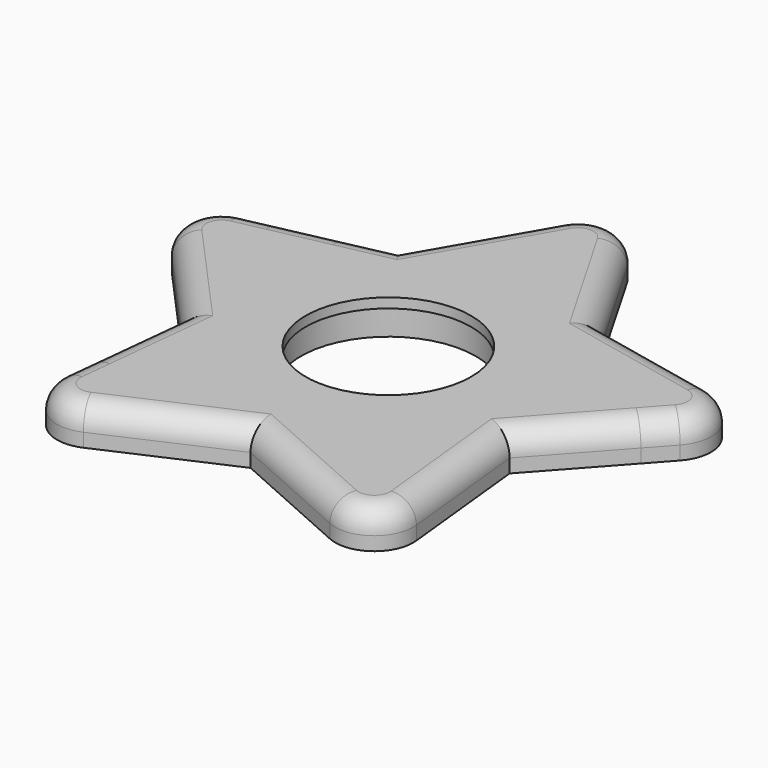
from build123d import *

# Parameters (mm, degrees)
F0_R     = 11.2
F0_R_2   = 10.6
F1_DEPTH = 1.25
F2_DEPTH = 3.5
F3_R     = 3
F4_DEPTH = 0.5


with BuildPart() as f1:
    # F0 (on Top) → F1 (new body)
    with BuildSketch(Plane.XY):
        with BuildLine():
            ThreePointArc((32.5660235492, 6.0283774926), (33.6055820033, 10.9191154962), (29.8898578759, 14.264768528))
            Line((29.8898578759, 14.264768528), (12.9759925753, 17.8599215809))
            Line((12.9759925753, 17.8599215809), (4.3301270189, 32.835))
            ThreePointArc((4.3301270189, 32.835), (0, 35.335), (-4.3301270189, 32.835))
            Line((-4.3301270189, 32.835), (-12.9759925753, 17.8599215809))
            Line((-12.9759925753, 17.8599215809), (-18.7194236958, 16.6391176097))
            Line((-18.7194236958, 16.6391176097), (-25.9988421276, 15.0918294569))
            Line((-25.9988421276, 15.0918294569), (-29.8898578759, 14.264768528))
            ThreePointArc((-29.8898578759, 14.264768528), (-33.6055820033, 10.9191154962), (-32.5660235492, 6.0283774926))
            Line((-32.5660235492, 6.0283774926), (-20.9955970247, -6.8218830075))
            Line((-20.9955970247, -6.8218830075), (-22.3872667993, -20.0627364432))
            Line((-22.3872667993, -20.0627364432), (-22.8030751051, -24.018888208))
            ThreePointArc((-22.8030751051, -24.018888208), (-20.7693918898, -28.5866154962), (-15.7967824129, -29.1092578126))
            Line((-15.7967824129, -29.1092578126), (0, -22.0760771468))
            Line((0, -22.0760771468), (15.7967824129, -29.1092578126))
            ThreePointArc((15.7967824129, -29.1092578126), (20.7693918898, -28.5866154962), (22.8030751051, -24.018888208))
            Line((22.8030751051, -24.018888208), (20.9955970247, -6.8218830075))
            Line((20.9955970247, -6.8218830075), (29.9042599002, 3.0721894725))
            Line((29.9042599002, 3.0721894725), (32.5660235492, 6.0283774926))
        make_face()
        with BuildLine():
            Line((3.7210224849, 27.89), (7.4420449699, 21.445))
            Line((7.4420449699, 21.445), (10.6005307066, 15.9743422289))
            ThreePointArc((10.6005307066, 15.9743422289), (11.1570110096, 15.3563082401), (11.9167581326, 15.0180470274))
            Line((11.9167581326, 15.0180470274), (18.0956886234, 13.7046748075))
            Line((18.0956886234, 13.7046748075), (25.3751070552, 12.1573866547))
            Line((25.3751070552, 12.1573866547), (29.2661228034, 11.3303257258))
            ThreePointArc((29.2661228034, 11.3303257258), (30.7524124544, 9.9920645131), (30.3365890728, 8.0357693116))
            Line((30.3365890728, 8.0357693116), (27.6748254238, 5.0795812915))
            Line((27.6748254238, 5.0795812915), (22.6951253605, -0.4509359188))
            Line((22.6951253605, -0.4509359188), (18.4682464081, -5.145360582))
            ThreePointArc((18.4682464081, -5.145360582), (18.0524230264, -5.865587806), (17.9654922683, -6.6926787213))
            Line((17.9654922683, -6.6926787213), (18.6257955889, -12.9750451642))
            Line((18.6257955889, -12.9750451642), (19.4037011132, -20.376321833))
            Line((19.4037011132, -20.376321833), (19.819509419, -24.3324735978))
            ThreePointArc((19.819509419, -24.3324735978), (19.0060361329, -26.1595645131), (17.0169923421, -26.3686214396))
            Line((17.0169923421, -26.3686214396), (13.3829602597, -24.7506461132))
            Line((13.3829602597, -24.7506461132), (6.5843138819, -21.7236937245))
            Line((6.5843138819, -21.7236937245), (0.8134732862, -19.154349953))
            ThreePointArc((0.8134732862, -19.154349953), (0, -18.9814408683), (-0.8134732862, -19.154349953))
            Line((-0.8134732862, -19.154349953), (-6.5843138819, -21.7236937245))
            Line((-6.5843138819, -21.7236937245), (-13.3829602597, -24.7506461132))
            Line((-13.3829602597, -24.7506461132), (-17.0169923421, -26.3686214396))
            ThreePointArc((-17.0169923421, -26.3686214396), (-19.0060361329, -26.1595645131), (-19.819509419, -24.3324735978))
            Line((-19.819509419, -24.3324735978), (-19.4037011132, -20.376321833))
            Line((-19.4037011132, -20.376321833), (-18.6257955889, -12.9750451642))
            Line((-18.6257955889, -12.9750451642), (-17.9654922683, -6.6926787213))
            ThreePointArc((-17.9654922683, -6.6926787213), (-18.0524230264, -5.865587806), (-18.4682464081, -5.145360582))
            Line((-18.4682464081, -5.145360582), (-22.6951253605, -0.4509359188))
            Line((-22.6951253605, -0.4509359188), (-27.6748254238, 5.0795812915))
            Line((-27.6748254238, 5.0795812915), (-30.3365890728, 8.0357693116))
            ThreePointArc((-30.3365890728, 8.0357693116), (-30.7524124544, 9.9920645131), (-29.2661228034, 11.3303257258))
            Line((-29.2661228034, 11.3303257258), (-25.3751070552, 12.1573866547))
            Line((-25.3751070552, 12.1573866547), (-18.0956886234, 13.7046748075))
            Line((-18.0956886234, 13.7046748075), (-11.9167581326, 15.0180470274))
            ThreePointArc((-11.9167581326, 15.0180470274), (-11.1570110096, 15.3563082401), (-10.6005307066, 15.9743422289))
            Line((-10.6005307066, 15.9743422289), (-7.4420449699, 21.445))
            Line((-7.4420449699, 21.445), (-3.7210224849, 27.89))
            Line((-3.7210224849, 27.89), (-1.7320508076, 31.335))
            ThreePointArc((-1.7320508076, 31.335), (0, 32.335), (1.7320508076, 31.335))
            Line((1.7320508076, 31.335), (3.7210224849, 27.89))
        make_face(mode=Mode.SUBTRACT)
        with BuildLine():
            Line((7.4420449699, 21.445), (3.7210224849, 15))
            Line((3.7210224849, 15), (-3.7210224849, 15))
            Line((-3.7210224849, 15), (-7.4420449699, 21.445))
            Line((-7.4420449699, 21.445), (-10.6005307066, 15.9743422289))
            ThreePointArc((-10.6005307066, 15.9743422289), (-11.1570110096, 15.3563082401), (-11.9167581326, 15.0180470274))
            Line((-11.9167581326, 15.0180470274), (-18.0956886234, 13.7046748075))
            Line((-18.0956886234, 13.7046748075), (-13.1159885601, 8.1741575972))
            Line((-13.1159885601, 8.1741575972), (-15.4157069287, 1.0963522341))
            Line((-15.4157069287, 1.0963522341), (-22.6951253605, -0.4509359188))
            Line((-22.6951253605, -0.4509359188), (-18.4682464081, -5.145360582))
            ThreePointArc((-18.4682464081, -5.145360582), (-18.0524230264, -5.865587806), (-17.9654922683, -6.6926787213))
            Line((-17.9654922683, -6.6926787213), (-18.6257955889, -12.9750451642))
            Line((-18.6257955889, -12.9750451642), (-11.8271492111, -9.9480927755))
            Line((-11.8271492111, -9.9480927755), (-5.8064083576, -14.3224170557))
            Line((-5.8064083576, -14.3224170557), (-6.5843138819, -21.7236937245))
            Line((-6.5843138819, -21.7236937245), (-0.8134732862, -19.154349953))
            ThreePointArc((-0.8134732862, -19.154349953), (0, -18.9814408683), (0.8134732862, -19.154349953))
            Line((0.8134732862, -19.154349953), (6.5843138819, -21.7236937245))
            Line((6.5843138819, -21.7236937245), (5.8064083576, -14.3224170557))
            Line((5.8064083576, -14.3224170557), (11.8271492111, -9.9480927755))
            Line((11.8271492111, -9.9480927755), (18.6257955889, -12.9750451642))
            Line((18.6257955889, -12.9750451642), (17.9654922683, -6.6926787213))
            ThreePointArc((17.9654922683, -6.6926787213), (18.0524230264, -5.865587806), (18.4682464081, -5.145360582))
            Line((18.4682464081, -5.145360582), (22.6951253605, -0.4509359188))
            Line((22.6951253605, -0.4509359188), (15.4157069287, 1.0963522341))
            Line((15.4157069287, 1.0963522341), (13.1159885601, 8.1741575972))
            Line((13.1159885601, 8.1741575972), (18.0956886234, 13.7046748075))
            Line((18.0956886234, 13.7046748075), (11.9167581326, 15.0180470274))
            ThreePointArc((11.9167581326, 15.0180470274), (11.1570110096, 15.3563082401), (10.6005307066, 15.9743422289))
            Line((10.6005307066, 15.9743422289), (7.4420449699, 21.445))
        make_face()
        Circle(F0_R, mode=Mode.SUBTRACT)
        Circle(F0_R)
        Circle(F0_R_2, mode=Mode.SUBTRACT)
        Polygon((-13.1159885601, 8.1741575972), (-18.0956886234, 13.7046748075), (-25.3751070552, 12.1573866547), (-27.6748254238, 5.0795812915), (-22.6951253605, -0.4509359188), (-15.4157069287, 1.0963522341), align=None)
        Polygon((-11.8271492111, -9.9480927755), (-18.6257955889, -12.9750451642), (-19.4037011132, -20.376321833), (-13.3829602597, -24.7506461132), (-6.5843138819, -21.7236937245), (-5.8064083576, -14.3224170557), align=None)
        Polygon((19.4037011132, -20.376321833), (18.6257955889, -12.9750451642), (11.8271492111, -9.9480927755), (5.8064083576, -14.3224170557), (6.5843138819, -21.7236937245), (13.3829602597, -24.7506461132), align=None)
        Polygon((25.3751070552, 12.1573866547), (18.0956886234, 13.7046748075), (13.1159885601, 8.1741575972), (15.4157069287, 1.0963522341), (22.6951253605, -0.4509359188), (27.6748254238, 5.0795812915), align=None)
        Polygon((-3.7210224849, 15), (3.7210224849, 15), (7.4420449699, 21.445), (3.7210224849, 27.89), (-3.7210224849, 27.89), (-7.4420449699, 21.445), align=None)
        with BuildLine():
            Line((-27.6748254238, 5.0795812915), (-25.3751070552, 12.1573866547))
            Line((-25.3751070552, 12.1573866547), (-29.2661228034, 11.3303257258))
            ThreePointArc((-29.2661228034, 11.3303257258), (-30.7524124544, 9.9920645131), (-30.3365890728, 8.0357693116))
            Line((-30.3365890728, 8.0357693116), (-27.6748254238, 5.0795812915))
        make_face()
        with BuildLine():
            Line((-13.3829602597, -24.7506461132), (-19.4037011132, -20.376321833))
            Line((-19.4037011132, -20.376321833), (-19.819509419, -24.3324735978))
            ThreePointArc((-19.819509419, -24.3324735978), (-19.0060361329, -26.1595645131), (-17.0169923421, -26.3686214396))
            Line((-17.0169923421, -26.3686214396), (-13.3829602597, -24.7506461132))
        make_face()
        with BuildLine():
            Line((19.819509419, -24.3324735978), (19.4037011132, -20.376321833))
            Line((19.4037011132, -20.376321833), (13.3829602597, -24.7506461132))
            Line((13.3829602597, -24.7506461132), (17.0169923421, -26.3686214396))
            ThreePointArc((17.0169923421, -26.3686214396), (19.0060361329, -26.1595645131), (19.819509419, -24.3324735978))
        make_face()
        with BuildLine():
            Line((29.2661228034, 11.3303257258), (25.3751070552, 12.1573866547))
            Line((25.3751070552, 12.1573866547), (27.6748254238, 5.0795812915))
            Line((27.6748254238, 5.0795812915), (30.3365890728, 8.0357693116))
            ThreePointArc((30.3365890728, 8.0357693116), (30.7524124544, 9.9920645131), (29.2661228034, 11.3303257258))
        make_face()
        with BuildLine():
            Line((-3.7210224849, 27.89), (3.7210224849, 27.89))
            Line((3.7210224849, 27.89), (1.7320508076, 31.335))
            ThreePointArc((1.7320508076, 31.335), (0, 32.335), (-1.7320508076, 31.335))
            Line((-1.7320508076, 31.335), (-3.7210224849, 27.89))
        make_face()
    extrude(amount=F1_DEPTH)

    # F0 (on Top) → F2 (join)
    with BuildSketch(Plane.XY):
        with BuildLine():
            ThreePointArc((32.5660235492, 6.0283774926), (33.6055820033, 10.9191154962), (29.8898578759, 14.264768528))
            Line((29.8898578759, 14.264768528), (12.9759925753, 17.8599215809))
            Line((12.9759925753, 17.8599215809), (4.3301270189, 32.835))
            ThreePointArc((4.3301270189, 32.835), (0, 35.335), (-4.3301270189, 32.835))
            Line((-4.3301270189, 32.835), (-12.9759925753, 17.8599215809))
            Line((-12.9759925753, 17.8599215809), (-18.7194236958, 16.6391176097))
            Line((-18.7194236958, 16.6391176097), (-25.9988421276, 15.0918294569))
            Line((-25.9988421276, 15.0918294569), (-29.8898578759, 14.264768528))
            ThreePointArc((-29.8898578759, 14.264768528), (-33.6055820033, 10.9191154962), (-32.5660235492, 6.0283774926))
            Line((-32.5660235492, 6.0283774926), (-20.9955970247, -6.8218830075))
            Line((-20.9955970247, -6.8218830075), (-22.3872667993, -20.0627364432))
            Line((-22.3872667993, -20.0627364432), (-22.8030751051, -24.018888208))
            ThreePointArc((-22.8030751051, -24.018888208), (-20.7693918898, -28.5866154962), (-15.7967824129, -29.1092578126))
            Line((-15.7967824129, -29.1092578126), (0, -22.0760771468))
            Line((0, -22.0760771468), (15.7967824129, -29.1092578126))
            ThreePointArc((15.7967824129, -29.1092578126), (20.7693918898, -28.5866154962), (22.8030751051, -24.018888208))
            Line((22.8030751051, -24.018888208), (20.9955970247, -6.8218830075))
            Line((20.9955970247, -6.8218830075), (29.9042599002, 3.0721894725))
            Line((29.9042599002, 3.0721894725), (32.5660235492, 6.0283774926))
        make_face()
        with BuildLine():
            Line((3.7210224849, 27.89), (7.4420449699, 21.445))
            Line((7.4420449699, 21.445), (10.6005307066, 15.9743422289))
            ThreePointArc((10.6005307066, 15.9743422289), (11.1570110096, 15.3563082401), (11.9167581326, 15.0180470274))
            Line((11.9167581326, 15.0180470274), (18.0956886234, 13.7046748075))
            Line((18.0956886234, 13.7046748075), (25.3751070552, 12.1573866547))
            Line((25.3751070552, 12.1573866547), (29.2661228034, 11.3303257258))
            ThreePointArc((29.2661228034, 11.3303257258), (30.7524124544, 9.9920645131), (30.3365890728, 8.0357693116))
            Line((30.3365890728, 8.0357693116), (27.6748254238, 5.0795812915))
            Line((27.6748254238, 5.0795812915), (22.6951253605, -0.4509359188))
            Line((22.6951253605, -0.4509359188), (18.4682464081, -5.145360582))
            ThreePointArc((18.4682464081, -5.145360582), (18.0524230264, -5.865587806), (17.9654922683, -6.6926787213))
            Line((17.9654922683, -6.6926787213), (18.6257955889, -12.9750451642))
            Line((18.6257955889, -12.9750451642), (19.4037011132, -20.376321833))
            Line((19.4037011132, -20.376321833), (19.819509419, -24.3324735978))
            ThreePointArc((19.819509419, -24.3324735978), (19.0060361329, -26.1595645131), (17.0169923421, -26.3686214396))
            Line((17.0169923421, -26.3686214396), (13.3829602597, -24.7506461132))
            Line((13.3829602597, -24.7506461132), (6.5843138819, -21.7236937245))
            Line((6.5843138819, -21.7236937245), (0.8134732862, -19.154349953))
            ThreePointArc((0.8134732862, -19.154349953), (0, -18.9814408683), (-0.8134732862, -19.154349953))
            Line((-0.8134732862, -19.154349953), (-6.5843138819, -21.7236937245))
            Line((-6.5843138819, -21.7236937245), (-13.3829602597, -24.7506461132))
            Line((-13.3829602597, -24.7506461132), (-17.0169923421, -26.3686214396))
            ThreePointArc((-17.0169923421, -26.3686214396), (-19.0060361329, -26.1595645131), (-19.819509419, -24.3324735978))
            Line((-19.819509419, -24.3324735978), (-19.4037011132, -20.376321833))
            Line((-19.4037011132, -20.376321833), (-18.6257955889, -12.9750451642))
            Line((-18.6257955889, -12.9750451642), (-17.9654922683, -6.6926787213))
            ThreePointArc((-17.9654922683, -6.6926787213), (-18.0524230264, -5.865587806), (-18.4682464081, -5.145360582))
            Line((-18.4682464081, -5.145360582), (-22.6951253605, -0.4509359188))
            Line((-22.6951253605, -0.4509359188), (-27.6748254238, 5.0795812915))
            Line((-27.6748254238, 5.0795812915), (-30.3365890728, 8.0357693116))
            ThreePointArc((-30.3365890728, 8.0357693116), (-30.7524124544, 9.9920645131), (-29.2661228034, 11.3303257258))
            Line((-29.2661228034, 11.3303257258), (-25.3751070552, 12.1573866547))
            Line((-25.3751070552, 12.1573866547), (-18.0956886234, 13.7046748075))
            Line((-18.0956886234, 13.7046748075), (-11.9167581326, 15.0180470274))
            ThreePointArc((-11.9167581326, 15.0180470274), (-11.1570110096, 15.3563082401), (-10.6005307066, 15.9743422289))
            Line((-10.6005307066, 15.9743422289), (-7.4420449699, 21.445))
            Line((-7.4420449699, 21.445), (-3.7210224849, 27.89))
            Line((-3.7210224849, 27.89), (-1.7320508076, 31.335))
            ThreePointArc((-1.7320508076, 31.335), (0, 32.335), (1.7320508076, 31.335))
            Line((1.7320508076, 31.335), (3.7210224849, 27.89))
        make_face(mode=Mode.SUBTRACT)
        with BuildLine():
            Line((29.2661228034, 11.3303257258), (25.3751070552, 12.1573866547))
            Line((25.3751070552, 12.1573866547), (27.6748254238, 5.0795812915))
            Line((27.6748254238, 5.0795812915), (30.3365890728, 8.0357693116))
            ThreePointArc((30.3365890728, 8.0357693116), (30.7524124544, 9.9920645131), (29.2661228034, 11.3303257258))
        make_face()
        with BuildLine():
            Line((7.4420449699, 21.445), (3.7210224849, 15))
            Line((3.7210224849, 15), (-3.7210224849, 15))
            Line((-3.7210224849, 15), (-7.4420449699, 21.445))
            Line((-7.4420449699, 21.445), (-10.6005307066, 15.9743422289))
            ThreePointArc((-10.6005307066, 15.9743422289), (-11.1570110096, 15.3563082401), (-11.9167581326, 15.0180470274))
            Line((-11.9167581326, 15.0180470274), (-18.0956886234, 13.7046748075))
            Line((-18.0956886234, 13.7046748075), (-13.1159885601, 8.1741575972))
            Line((-13.1159885601, 8.1741575972), (-15.4157069287, 1.0963522341))
            Line((-15.4157069287, 1.0963522341), (-22.6951253605, -0.4509359188))
            Line((-22.6951253605, -0.4509359188), (-18.4682464081, -5.145360582))
            ThreePointArc((-18.4682464081, -5.145360582), (-18.0524230264, -5.865587806), (-17.9654922683, -6.6926787213))
            Line((-17.9654922683, -6.6926787213), (-18.6257955889, -12.9750451642))
            Line((-18.6257955889, -12.9750451642), (-11.8271492111, -9.9480927755))
            Line((-11.8271492111, -9.9480927755), (-5.8064083576, -14.3224170557))
            Line((-5.8064083576, -14.3224170557), (-6.5843138819, -21.7236937245))
            Line((-6.5843138819, -21.7236937245), (-0.8134732862, -19.154349953))
            ThreePointArc((-0.8134732862, -19.154349953), (0, -18.9814408683), (0.8134732862, -19.154349953))
            Line((0.8134732862, -19.154349953), (6.5843138819, -21.7236937245))
            Line((6.5843138819, -21.7236937245), (5.8064083576, -14.3224170557))
            Line((5.8064083576, -14.3224170557), (11.8271492111, -9.9480927755))
            Line((11.8271492111, -9.9480927755), (18.6257955889, -12.9750451642))
            Line((18.6257955889, -12.9750451642), (17.9654922683, -6.6926787213))
            ThreePointArc((17.9654922683, -6.6926787213), (18.0524230264, -5.865587806), (18.4682464081, -5.145360582))
            Line((18.4682464081, -5.145360582), (22.6951253605, -0.4509359188))
            Line((22.6951253605, -0.4509359188), (15.4157069287, 1.0963522341))
            Line((15.4157069287, 1.0963522341), (13.1159885601, 8.1741575972))
            Line((13.1159885601, 8.1741575972), (18.0956886234, 13.7046748075))
            Line((18.0956886234, 13.7046748075), (11.9167581326, 15.0180470274))
            ThreePointArc((11.9167581326, 15.0180470274), (11.1570110096, 15.3563082401), (10.6005307066, 15.9743422289))
            Line((10.6005307066, 15.9743422289), (7.4420449699, 21.445))
        make_face()
        Circle(F0_R, mode=Mode.SUBTRACT)
        with BuildLine():
            Line((-3.7210224849, 27.89), (3.7210224849, 27.89))
            Line((3.7210224849, 27.89), (1.7320508076, 31.335))
            ThreePointArc((1.7320508076, 31.335), (0, 32.335), (-1.7320508076, 31.335))
            Line((-1.7320508076, 31.335), (-3.7210224849, 27.89))
        make_face()
        with BuildLine():
            Line((-27.6748254238, 5.0795812915), (-25.3751070552, 12.1573866547))
            Line((-25.3751070552, 12.1573866547), (-29.2661228034, 11.3303257258))
            ThreePointArc((-29.2661228034, 11.3303257258), (-30.7524124544, 9.9920645131), (-30.3365890728, 8.0357693116))
            Line((-30.3365890728, 8.0357693116), (-27.6748254238, 5.0795812915))
        make_face()
        with BuildLine():
            Line((-13.3829602597, -24.7506461132), (-19.4037011132, -20.376321833))
            Line((-19.4037011132, -20.376321833), (-19.819509419, -24.3324735978))
            ThreePointArc((-19.819509419, -24.3324735978), (-19.0060361329, -26.1595645131), (-17.0169923421, -26.3686214396))
            Line((-17.0169923421, -26.3686214396), (-13.3829602597, -24.7506461132))
        make_face()
        with BuildLine():
            Line((19.819509419, -24.3324735978), (19.4037011132, -20.376321833))
            Line((19.4037011132, -20.376321833), (13.3829602597, -24.7506461132))
            Line((13.3829602597, -24.7506461132), (17.0169923421, -26.3686214396))
            ThreePointArc((17.0169923421, -26.3686214396), (19.0060361329, -26.1595645131), (19.819509419, -24.3324735978))
        make_face()
    extrude(amount=-F2_DEPTH)

    # F3
    f3_edges = [f1.edges().sort_by_distance(p)[0] for p in [
        (-8.65306, 25.347461, 1.25),
        (-21.432925, 16.062345, 1.25),
        (-21.899336, -15.420386, 1.25),
        (7.898391, -25.592667, 1.25),
        (26.78081, -0.396753, 1.25),
    ]]
    fillet(f3_edges, radius=F3_R)

    # F4 (cut): faces of the model
    f4_faces = [f1.faces().sort_by_distance(p)[0] for p in [
        (20.3954069919, 6.6268694444, 0),
        (0, 21.445, 0),
        (-20.3954069919, 6.6268694444, 0),
        (-12.6050547354, -17.3493694444, 0),
        (12.6050547354, -17.3493694444, 0),
    ]]
    extrude(f4_faces, amount=-F4_DEPTH, mode=Mode.SUBTRACT)


solid = f1.part
